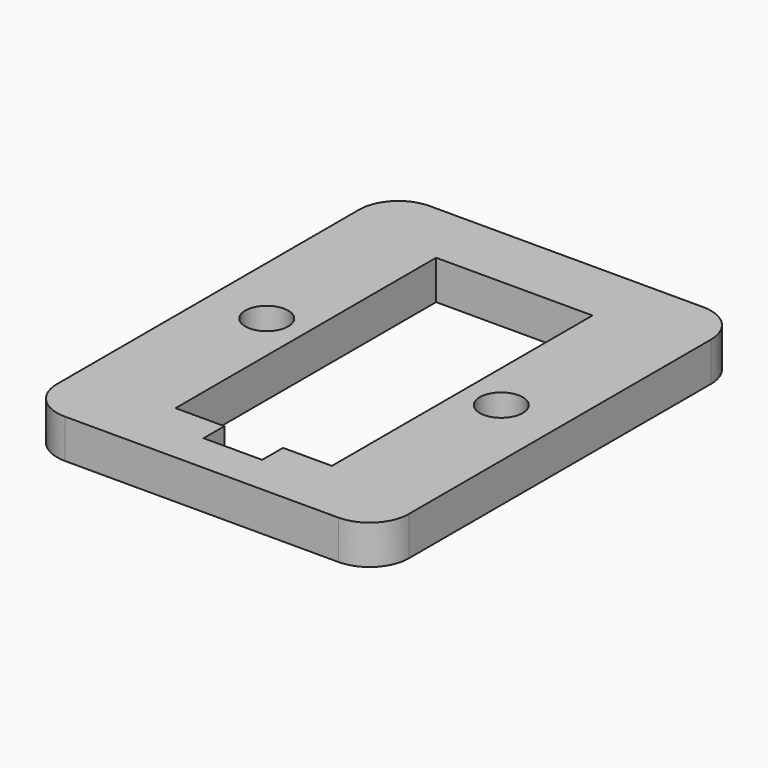
from build123d import *

# Parameters (mm, degrees)
F1_DEPTH = 3
F3_D     = 3.3
F5_DEPTH = 25


with BuildPart() as f1:
    # F0 (on Top) → F1 (new body)
    with BuildSketch(Plane.XY):
        with BuildLine():
            Line((10.5, 17.5), (-10.5, 17.5))
            ThreePointArc((-10.5, 17.5), (-12.62132, 16.62132), (-13.5, 14.5))
            Line((-13.5, 14.5), (-13.5, -14.5))
            ThreePointArc((-13.5, -14.5), (-12.62132, -16.62132), (-10.5, -17.5))
            Line((-10.5, -17.5), (10.5, -17.5))
            ThreePointArc((10.5, -17.5), (12.62132, -16.62132), (13.5, -14.5))
            Line((13.5, -14.5), (13.5, 14.5))
            ThreePointArc((13.5, 14.5), (12.62132, 16.62132), (10.5, 17.5))
        make_face()
    extrude(amount=F1_DEPTH)

    # F3 (through all)
    with Locations(Plane.XY.offset(3)):
        with Locations((-9, 0), (9, 0)):
            Hole(F3_D / 2)

    # F4 (on face) → F5 (cut)
    with BuildSketch(Plane.XY.offset(3)):
        Polygon((6, 12.5), (-6, 12.5), (-6, -12.5), (-2.25, -12.5), (-2.25, -14.5), (2.25, -14.5), (2.25, -12.5), (6, -12.5), align=None)
    extrude(amount=-F5_DEPTH, mode=Mode.SUBTRACT)


solid = f1.part
